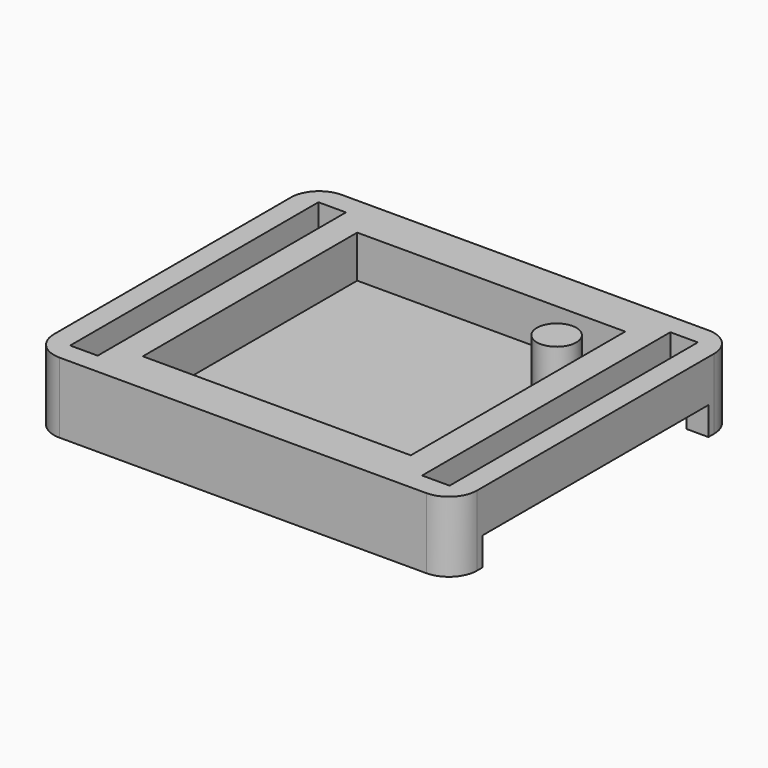
from build123d import *

# Parameters (mm, degrees)
F0_W      = 30
F0_H      = 25
F1_DEPTH  = 3
F2_W      = 19
F2_H      = 19
F3_DEPTH  = 5
F4_DEPTH  = 2
F5_W      = 1.949999
F5_H      = 22
F6_DEPTH  = 5
F7_R      = 2
F8_R      = 1.4
F9_DEPTH  = 3
F10_W     = 5
F10_H     = 20
F11_DEPTH = 2
F12_W     = 19
F12_H     = 4
F13_DEPTH = 1


with BuildPart() as f1:
    # F0 (on Top) → F1 (new body)
    with BuildSketch(Plane.XY):
        Rectangle(F0_W, F0_H)
    extrude(amount=F1_DEPTH)

    # F2 (on Top) → F3 (cut)
    with BuildSketch(Plane.XY):
        Rectangle(F2_W, F2_H)
    extrude(amount=F3_DEPTH, mode=Mode.SUBTRACT)

    # F0 (on Top) → F4 (join)
    with BuildSketch(Plane.XY):
        Rectangle(F0_W, F0_H)
    extrude(amount=-F4_DEPTH)

    # F5 (on Top) → F6 (cut, symmetric)
    with BuildSketch(Plane.XY):
        with Locations((-12.474999, 0)):
            Rectangle(F5_W, F5_H)
        with Locations((12.474999, 0)):
            Rectangle(F5_W, F5_H)
    extrude(amount=F6_DEPTH, both=True, mode=Mode.SUBTRACT)

    # F7
    f7_edges = [f1.edges().sort_by_distance(p)[0] for p in [
        (15, -12.5, 0.5),
        (15, 12.5, 0.5),
        (-15, -12.5, 0.5),
        (-15, 12.5, 0.5),
    ]]
    fillet(f7_edges, radius=F7_R)

    # F8 (on Top) → F9 (join)
    with BuildSketch(Plane.XY):
        with Locations((6.8, 6.8)):
            Circle(F8_R)
    extrude(amount=F9_DEPTH)

    # F10 (on Top) → F11 (cut)
    with BuildSketch(Plane.XY):
        with Locations((15, 0)):
            Rectangle(F10_W, F10_H)
        with Locations((-15, 0)):
            Rectangle(F10_W, F10_H)
    extrude(amount=-F11_DEPTH, mode=Mode.SUBTRACT)

    # F12 (on Top) → F13 (cut)
    with BuildSketch(Plane.XY):
        with Locations((-0.012709, -7.479958)):
            Rectangle(F12_W, F12_H)
    extrude(amount=-F13_DEPTH, mode=Mode.SUBTRACT)


solid = f1.part
